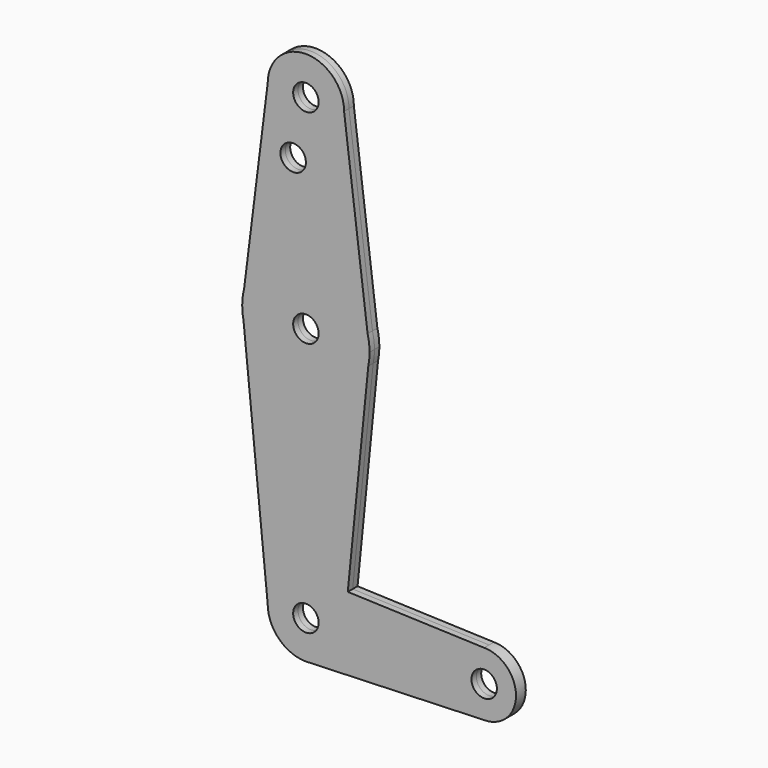
from build123d import *

# Parameters (mm, degrees)
F0_R     = 3.175
F1_DEPTH = 1.524


with BuildPart() as f1:
    # F0 (on Front) → F1 (new body, symmetric)
    with BuildSketch(Plane.XZ):
        with BuildLine():
            ThreePointArc((44.45, -7.9375), (50.0626600757, -5.6126600757), (52.3875, 0))
            ThreePointArc((52.3875, 0), (50.0626600757, 5.6126600757), (44.45, 7.9375))
            ThreePointArc((44.45, 7.9375), (36.5125, 0), (44.45, -7.9375))
        make_face()
        with Locations((44.45, 0)):
            Circle(F0_R, mode=Mode.SUBTRACT)
        with BuildLine():
            ThreePointArc((44.45, -7.9375), (36.5125, 0), (44.45, 7.9375))
            Line((44.45, 7.9375), (10.4402135231, 9.1521352313))
            Line((10.4402135231, 9.1521352313), (9.525, 0))
            ThreePointArc((9.525, 0), (6.9712901065, -6.4905114784), (0.6794904459, -9.5007324841))
            Line((0.6794904459, -9.5007324841), (44.45, -7.9375))
        make_face()
        with BuildLine():
            Line((9.525, 0), (10.4402135231, 9.1521352313))
            Line((10.4402135231, 9.1521352313), (0.6794904459, 9.5007324841))
            ThreePointArc((0.6794904459, 9.5007324841), (6.9712901065, 6.4905114784), (9.525, 0))
        make_face()
        with BuildLine():
            Line((0.6794904459, 9.5007324841), (10.4402135231, 9.1521352313))
            Line((10.4402135231, 9.1521352313), (15.5606435644, 60.3564356436))
            ThreePointArc((15.5606435644, 60.3564356436), (0, 47.625), (-15.5606435644, 60.3564356436))
            Line((-15.5606435644, 60.3564356436), (-9.525, 0))
            ThreePointArc((-9.525, 0), (-6.7351920908, 6.7351920908), (0, 9.525))
            ThreePointArc((0, 9.525), (0.3399618281, 9.5189311877), (0.6794904459, 9.5007324841))
        make_face()
        with BuildLine():
            Line((0, -9.525), (0.6794904459, -9.5007324841))
            ThreePointArc((0.6794904459, -9.5007324841), (6.9712901065, -6.4905114784), (9.525, 0))
            ThreePointArc((9.525, 0), (6.9712901065, 6.4905114784), (0.6794904459, 9.5007324841))
            Line((0.6794904459, 9.5007324841), (0, 9.525))
            ThreePointArc((0, 9.525), (-6.7351920908, 6.7351920908), (-9.525, 0))
            ThreePointArc((-9.525, 0), (-6.7351920908, -6.7351920908), (0, -9.525))
        make_face()
        Circle(F0_R, mode=Mode.SUBTRACT)
        with BuildLine():
            ThreePointArc((0, -9.525), (0.3399618281, -9.5189311877), (0.6794904459, -9.5007324841))
            Line((0.6794904459, -9.5007324841), (0, -9.525))
        make_face()
        with BuildLine():
            Line((15.875, 63.5), (15.5606435644, 60.3564356436))
            ThreePointArc((15.5606435644, 60.3564356436), (15.7962153946, 61.9203784605), (15.875, 63.5))
        make_face()
        with BuildLine():
            ThreePointArc((-15.5606435644, 60.3564356436), (0, 47.625), (15.5606435644, 60.3564356436))
            Line((15.5606435644, 60.3564356436), (15.875, 63.5))
            Line((15.875, 63.5), (15.3865384615, 67.4076923077))
            ThreePointArc((15.3865384615, 67.4076923077), (0, 79.375), (-15.3865384615, 67.4076923077))
            Line((-15.3865384615, 67.4076923077), (-15.875, 63.5))
            Line((-15.875, 63.5), (-15.5606435644, 60.3564356436))
        make_face()
        with Locations((0, 63.5)):
            Circle(F0_R, mode=Mode.SUBTRACT)
        with BuildLine():
            ThreePointArc((-15.875, 63.5), (-15.7962153946, 61.9203784605), (-15.5606435644, 60.3564356436))
            Line((-15.5606435644, 60.3564356436), (-15.875, 63.5))
        make_face()
        with BuildLine():
            Line((15.3865384615, 67.4076923077), (15.875, 63.5))
            ThreePointArc((15.875, 63.5), (15.7524112928, 65.4690514116), (15.3865384615, 67.4076923077))
        make_face()
        with BuildLine():
            ThreePointArc((-15.3865384615, 67.4076923077), (-15.7524112928, 65.4690514116), (-15.875, 63.5))
            Line((-15.875, 63.5), (-15.3865384615, 67.4076923077))
        make_face()
        with BuildLine():
            ThreePointArc((-15.3865384615, 67.4076923077), (0, 79.375), (15.3865384615, 67.4076923077))
            Line((15.3865384615, 67.4076923077), (9.525, 114.3))
            ThreePointArc((9.525, 114.3), (0, 104.775), (-9.525, 114.3))
            Line((-9.525, 114.3), (-15.3865384615, 67.4076923077))
        make_face()
        with Locations((-3.175, 100.0252)):
            Circle(F0_R, mode=Mode.SUBTRACT)
        with BuildLine():
            ThreePointArc((-9.525, 114.3), (0, 104.775), (9.525, 114.3))
            ThreePointArc((9.525, 114.3), (0, 123.825), (-9.525, 114.3))
        make_face()
        with Locations((0, 114.3)):
            Circle(F0_R, mode=Mode.SUBTRACT)
    extrude(amount=F1_DEPTH, both=True)


solid = f1.part
